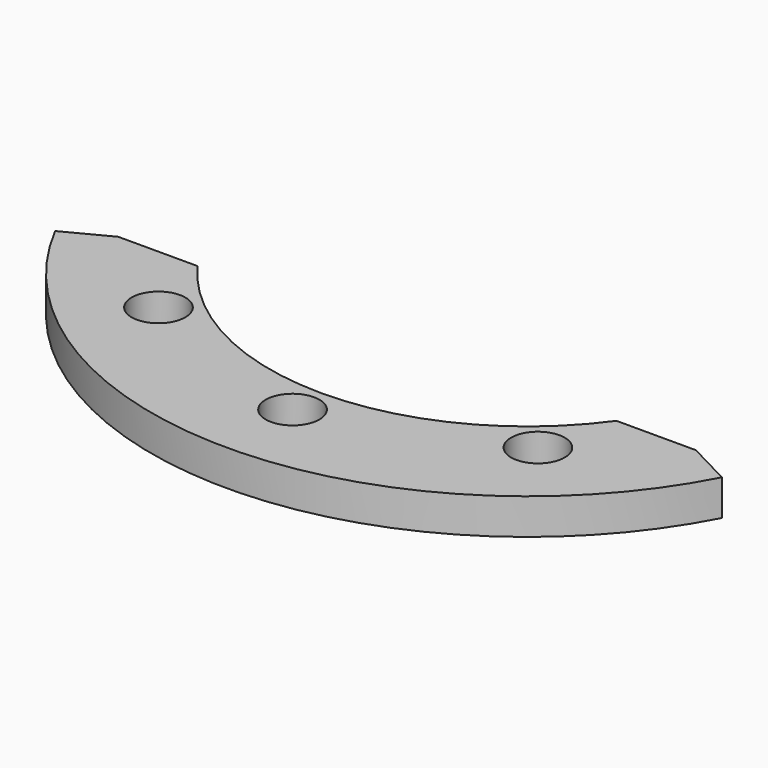
from build123d import *

# Parameters (mm, degrees)
F0_R     = 0.75
F1_DEPTH = 1


with BuildPart() as f1:
    # F0 (on Top) → F1 (new body)
    with BuildSketch(Plane.XY):
        with BuildLine():
            Line((-8.068125, -4.2), (-9.313614, -4.84836))
            ThreePointArc((-9.313614, -4.84836), (0, -10.5), (9.313614, -4.84836))
            Line((9.313614, -4.84836), (8.068125, -4.2))
            Line((8.068125, -4.2), (5.848077, -4.2))
            ThreePointArc((5.848077, -4.2), (0, -7.2), (-5.848077, -4.2))
            Line((-5.848077, -4.2), (-8.068125, -4.2))
        make_face()
        with Locations((0, -8.2)):
            Circle(F0_R, mode=Mode.SUBTRACT)
        with Locations((-5.3, -6.256996)):
            Circle(F0_R, mode=Mode.SUBTRACT)
        with Locations((5.3, -6.256996)):
            Circle(F0_R, mode=Mode.SUBTRACT)
    extrude(amount=F1_DEPTH)


solid = f1.part
